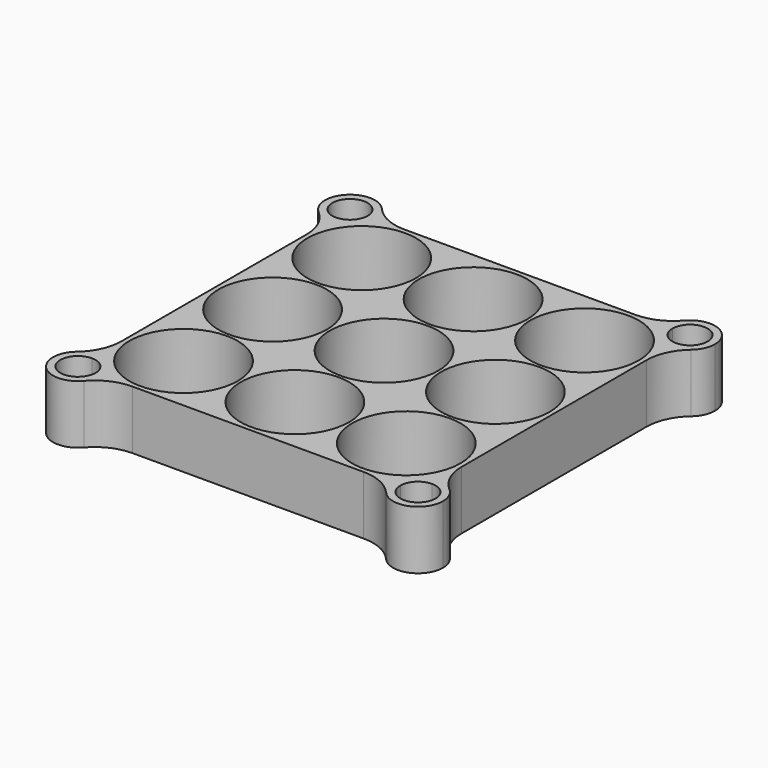
from build123d import *

# Parameters (mm, degrees)
F0_R     = 9.25
F1_DEPTH = 10
F2_R     = 8


with BuildPart() as f1:
    # F0 (on Top) → F1 (new body)
    with BuildSketch(Plane.XY):
        with BuildLine():
            Line((22.3468586802, 59.2135186791), (-27.1531413198, 59.2135186791))
            ThreePointArc((-27.1531413198, 59.2135186791), (-28.3979374997, 56.2083148591), (-31.4031413198, 54.9635186791))
            Line((-31.4031413198, 54.9635186791), (-31.4031413198, 5.4635186791))
            ThreePointArc((-31.4031413198, 5.4635186791), (-28.3979374997, 4.2187224992), (-27.1531413198, 1.2135186791))
            Line((-27.1531413198, 1.2135186791), (22.3468586802, 1.2135186791))
            ThreePointArc((22.3468586802, 1.2135186791), (23.5916548602, 4.2187224992), (26.5968586802, 5.4635186791))
            Line((26.5968586802, 5.4635186791), (26.5968586802, 54.9635186791))
            ThreePointArc((26.5968586802, 54.9635186791), (23.5916548602, 56.2083148591), (22.3468586802, 59.2135186791))
        make_face()
        with Locations((-21.4031413198, 11.2135186791)):
            Circle(F0_R, mode=Mode.SUBTRACT)
        with Locations((-2.4031413198, 11.2135186791)):
            Circle(F0_R, mode=Mode.SUBTRACT)
        with Locations((16.5968586802, 11.2135186791)):
            Circle(F0_R, mode=Mode.SUBTRACT)
        with Locations((-21.4031413198, 30.2135186791)):
            Circle(F0_R, mode=Mode.SUBTRACT)
        with Locations((-21.4031413198, 49.2135186791)):
            Circle(F0_R, mode=Mode.SUBTRACT)
        with Locations((-2.4031413198, 30.2135186791)):
            Circle(F0_R, mode=Mode.SUBTRACT)
        with Locations((16.5968586802, 30.2135186791)):
            Circle(F0_R, mode=Mode.SUBTRACT)
        with Locations((-2.4031413198, 49.2135186791)):
            Circle(F0_R, mode=Mode.SUBTRACT)
        with Locations((16.5968586802, 49.2135186791)):
            Circle(F0_R, mode=Mode.SUBTRACT)
        with BuildLine():
            Line((-28.4031413198, 59.2135186791), (-27.1531413198, 59.2135186791))
            ThreePointArc((-27.1531413198, 59.2135186791), (-34.4083451398, 62.2187224992), (-31.4031413198, 54.9635186791))
            Line((-31.4031413198, 54.9635186791), (-31.4031413198, 56.2135186791))
            ThreePointArc((-31.4031413198, 56.2135186791), (-33.5244616633, 61.3348390227), (-28.4031413198, 59.2135186791))
        make_face()
        with BuildLine():
            ThreePointArc((-31.4031413198, 54.9635186791), (-28.3979374997, 56.2083148591), (-27.1531413198, 59.2135186791))
            Line((-27.1531413198, 59.2135186791), (-28.4031413198, 59.2135186791))
            ThreePointArc((-28.4031413198, 59.2135186791), (-29.2818209762, 57.0921983356), (-31.4031413198, 56.2135186791))
            Line((-31.4031413198, 56.2135186791), (-31.4031413198, 54.9635186791))
        make_face()
        with BuildLine():
            ThreePointArc((-27.1531413198, 1.2135186791), (-28.3979374997, 4.2187224992), (-31.4031413198, 5.4635186791))
            Line((-31.4031413198, 5.4635186791), (-31.4031413198, 4.2135186791))
            ThreePointArc((-31.4031413198, 4.2135186791), (-29.2818209762, 3.3348390227), (-28.4031413198, 1.2135186791))
            Line((-28.4031413198, 1.2135186791), (-27.1531413198, 1.2135186791))
        make_face()
        with BuildLine():
            Line((-31.4031413198, 4.2135186791), (-31.4031413198, 5.4635186791))
            ThreePointArc((-31.4031413198, 5.4635186791), (-34.4083451398, -1.7916851409), (-27.1531413198, 1.2135186791))
            Line((-27.1531413198, 1.2135186791), (-28.4031413198, 1.2135186791))
            ThreePointArc((-28.4031413198, 1.2135186791), (-33.5244616633, -0.9078016644), (-31.4031413198, 4.2135186791))
        make_face()
        with BuildLine():
            Line((26.5968586802, 4.2135186791), (26.5968586802, 5.4635186791))
            ThreePointArc((26.5968586802, 5.4635186791), (23.5916548602, 4.2187224992), (22.3468586802, 1.2135186791))
            Line((22.3468586802, 1.2135186791), (23.5968586802, 1.2135186791))
            ThreePointArc((23.5968586802, 1.2135186791), (24.4755383367, 3.3348390227), (26.5968586802, 4.2135186791))
        make_face()
        with BuildLine():
            ThreePointArc((30.8468586802, 1.2135186791), (29.6020625003, 4.2187224992), (26.5968586802, 5.4635186791))
            Line((26.5968586802, 5.4635186791), (26.5968586802, 4.2135186791))
            ThreePointArc((26.5968586802, 4.2135186791), (28.7181790238, 3.3348390227), (29.5968586802, 1.2135186791))
            ThreePointArc((29.5968586802, 1.2135186791), (26.5968586802, -1.7864813209), (23.5968586802, 1.2135186791))
            Line((23.5968586802, 1.2135186791), (22.3468586802, 1.2135186791))
            ThreePointArc((22.3468586802, 1.2135186791), (26.5968586802, -3.0364813209), (30.8468586802, 1.2135186791))
        make_face()
        with BuildLine():
            Line((23.5968586802, 59.2135186791), (22.3468586802, 59.2135186791))
            ThreePointArc((22.3468586802, 59.2135186791), (23.5916548602, 56.2083148591), (26.5968586802, 54.9635186791))
            Line((26.5968586802, 54.9635186791), (26.5968586802, 56.2135186791))
            ThreePointArc((26.5968586802, 56.2135186791), (24.4755383367, 57.0921983356), (23.5968586802, 59.2135186791))
        make_face()
        with BuildLine():
            ThreePointArc((30.8468586802, 59.2135186791), (26.5968586802, 63.4635186791), (22.3468586802, 59.2135186791))
            Line((22.3468586802, 59.2135186791), (23.5968586802, 59.2135186791))
            ThreePointArc((23.5968586802, 59.2135186791), (26.5968586802, 62.2135186791), (29.5968586802, 59.2135186791))
            ThreePointArc((29.5968586802, 59.2135186791), (28.7181790238, 57.0921983356), (26.5968586802, 56.2135186791))
            Line((26.5968586802, 56.2135186791), (26.5968586802, 54.9635186791))
            ThreePointArc((26.5968586802, 54.9635186791), (29.6020625003, 56.2083148591), (30.8468586802, 59.2135186791))
        make_face()
    extrude(amount=F1_DEPTH)

    # F2
    f2_edges = [f1.edges().sort_by_distance(p)[0] for p in [
        (26.596859, 54.963519, 5),
        (22.346859, 59.213519, 5),
        (-27.153141, 59.213519, 5),
        (-27.153141, 1.213519, 5),
        (-31.403141, 5.463519, 5),
        (-31.403141, 54.963519, 5),
        (22.346859, 1.213519, 5),
        (26.596859, 5.463519, 5),
    ]]
    fillet(f2_edges, radius=F2_R)


solid = f1.part
